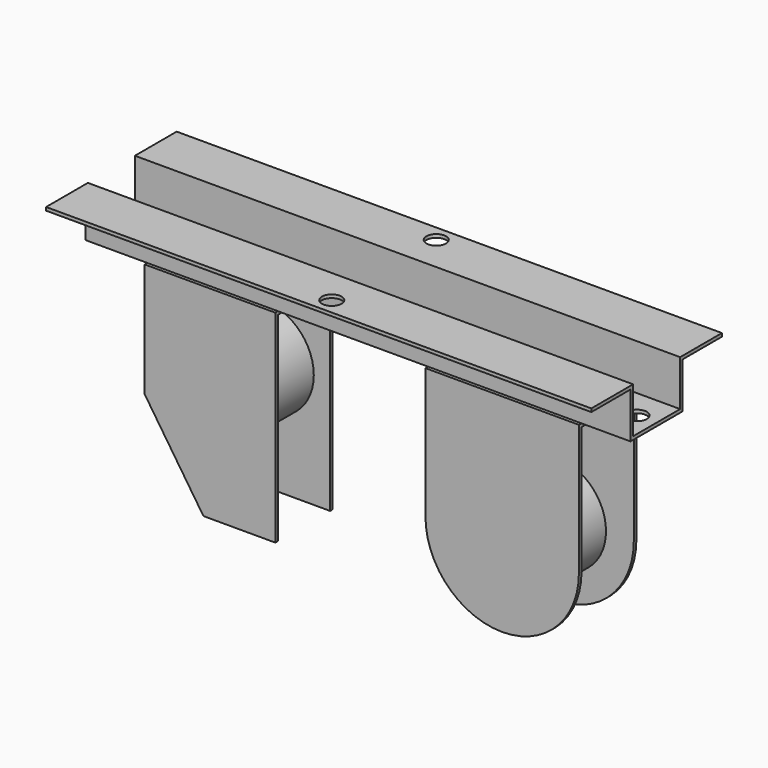
from build123d import *

# Parameters (mm, degrees)
F1_DEPTH  = 167
F3_DEPTH  = 11
F5_DEPTH  = 11
F7_DEPTH  = 152.001
F8_R      = 3
F9_DEPTH  = 78.501
F10_R     = 3
F11_DEPTH = 64.501
F12_R     = 15
F13_DEPTH = 21
F14_R     = 15
F15_DEPTH = 21


with BuildPart() as f1:
    # F0 (on Right) → F1 (new body)
    with BuildSketch(Plane.YZ):
        Polygon((-9, 0), (-25, 0), (-25, -1), (-10, -1), (-10, -15), (0, -15), (10, -15), (10, -1), (25, -1), (25, 0), (9, 0), (9, -14), (0, -14), (-9, -14), align=None)
    extrude(amount=F1_DEPTH)

    # F2 (on Front) → F3 (join, symmetric)
    with BuildSketch(Plane.XZ):
        with BuildLine():
            Line((152, -55), (152, -15))
            Line((152, -15), (105, -15))
            Line((105, -15), (105, -55))
            ThreePointArc((105, -55), (128.5, -78.5), (152, -55))
        make_face()
    extrude(amount=F3_DEPTH, both=True)

    # F4 (on Front) → F5 (join, symmetric)
    with BuildSketch(Plane.XZ):
        Polygon((59, -15), (19, -15), (19, -50), (37, -77), (59, -77), align=None)
    extrude(amount=F5_DEPTH, both=True)

    # F6 (on face) → F7 (cut, through all)
    with BuildSketch(Plane.YZ.offset(152)):
        Polygon((0, -16), (-10, -16), (-10, -83.886804), (0, -83.886804), (10, -83.886804), (10, -16), align=None)
    extrude(amount=-F7_DEPTH, mode=Mode.SUBTRACT)

    # F8 (on face) → F9 (cut, through all)
    with BuildSketch(Plane.XY):
        with Locations((83.5, 20)):
            Circle(F8_R)
        with Locations((83.5, -20)):
            Circle(F8_R)
    extrude(amount=-F9_DEPTH, mode=Mode.SUBTRACT)

    # F10 (on face) → F11 (cut, through all)
    with BuildSketch(Plane.XY.offset(-14)):
        with Locations((161, 0)):
            Circle(F10_R)
        with Locations((6, 0)):
            Circle(F10_R)
    extrude(amount=-F11_DEPTH, mode=Mode.SUBTRACT)

    # F12 (on face) → F13 (join, through all)
    with BuildSketch(Plane.XZ.offset(11)):
        with Locations((128.5, -55)):
            Circle(F12_R)
    extrude(amount=-F13_DEPTH)

    # F14 (on face) → F15 (join, through all)
    with BuildSketch(Plane.XZ.offset(11)):
        with Locations((38.9975, -42)):
            Circle(F14_R)
    extrude(amount=-F15_DEPTH)


solid = f1.part
